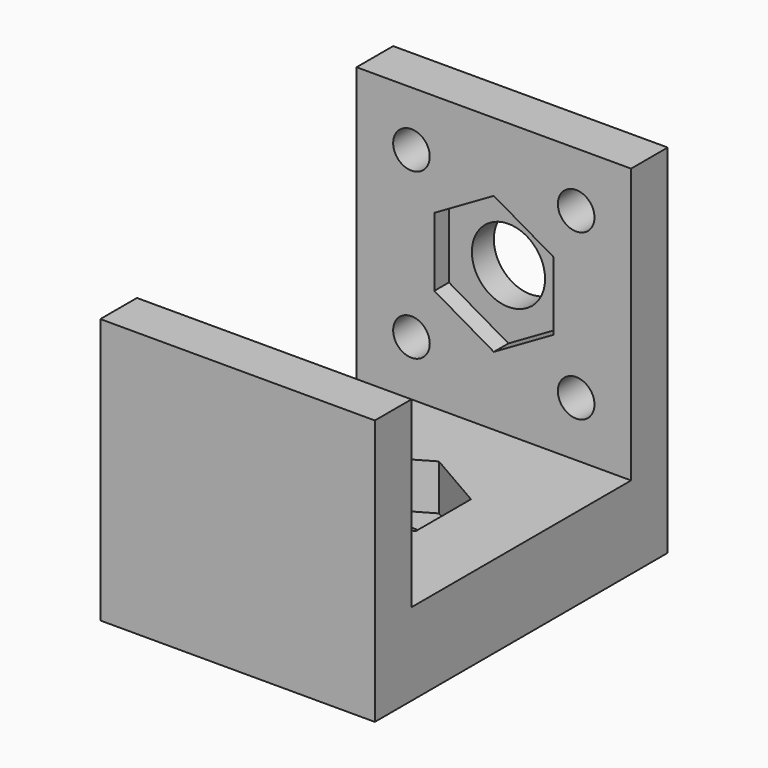
from build123d import *

# Parameters (mm, degrees)
SKETCH_W        = 30
SKETCH_H        = 40
PAD_DEPTH       = 9
SKETCH002_W     = 30
SKETCH002_H     = 5
PAD001_DEPTH    = 30
SKETCH003_R     = 2
SKETCH003_R_2   = 4
POCKET_DEPTH    = 5.001
POCKET001_DEPTH = 2
SKETCH007_W     = 30
SKETCH007_H     = 5
PAD002_DEPTH    = 20
SKETCH008_R     = 4
POCKET002_DEPTH = 9.001
POCKET003_DEPTH = 5


with BuildPart() as part:
    # Sketch → Pad (new body)
    with BuildSketch(Plane.XY):
        with Locations((-10.97123, 13.069184)):
            Rectangle(SKETCH_W, SKETCH_H)
    extrude(amount=PAD_DEPTH)

    # Sketch002 (on Face6 of Pad) → Pad001 (join)
    with BuildSketch(Plane.XY.offset(9)):
        with Locations((-10.97123, 30.569184)):
            Rectangle(SKETCH002_W, SKETCH002_H)
    extrude(amount=PAD001_DEPTH)

    # Sketch003 (on Face11 of Pad001) → Pocket (cut, through all)
    with BuildSketch(Plane.XZ.offset(-28.069184)):
        with Locations((-1.97123, 33)):
            Circle(SKETCH003_R)
        with Locations((-19.97123, 33)):
            Circle(SKETCH003_R)
        with Locations((-19.97123, 15)):
            Circle(SKETCH003_R)
        with Locations((-1.97123, 15)):
            Circle(SKETCH003_R)
        with Locations((-10.97123, 24)):
            Circle(SKETCH003_R_2)
    extrude(amount=-POCKET_DEPTH, mode=Mode.SUBTRACT)

    # Sketch005 (on Face16 of Pocket) → Pocket001 (cut)
    with BuildSketch(Plane.XZ.offset(-28.069184)):
        Polygon((-4.47123, 27.752777), (-10.97123, 31.505553), (-17.47123, 27.752777), (-17.47123, 20.247223), (-10.97123, 16.494447), (-4.47123, 20.247223), align=None)
    extrude(amount=-POCKET001_DEPTH, mode=Mode.SUBTRACT)

    # Sketch007 (on Face7 of Pocket001) → Pad002 (join)
    with BuildSketch(Plane.XY.offset(9)):
        with Locations((-10.97123, -4.430816)):
            Rectangle(SKETCH007_W, SKETCH007_H)
    extrude(amount=PAD002_DEPTH)

    # Sketch008 (on Face8 of Pad002) → Pocket002 (cut, through all)
    with BuildSketch(Plane.XY.offset(9)):
        with Locations((-10.97123, 13.069184)):
            Circle(SKETCH008_R)
    extrude(amount=-POCKET002_DEPTH, mode=Mode.SUBTRACT)

    # Sketch009 (on Face8 of Pocket002) → Pocket003 (cut)
    with BuildSketch(Plane.XY.offset(9)):
        Polygon((-4.47123, 16.821961), (-10.97123, 20.574738), (-17.47123, 16.821961), (-17.47123, 9.316407), (-10.97123, 5.563631), (-4.47123, 9.316407), align=None)
    extrude(amount=-POCKET003_DEPTH, mode=Mode.SUBTRACT)


solid = part.part
